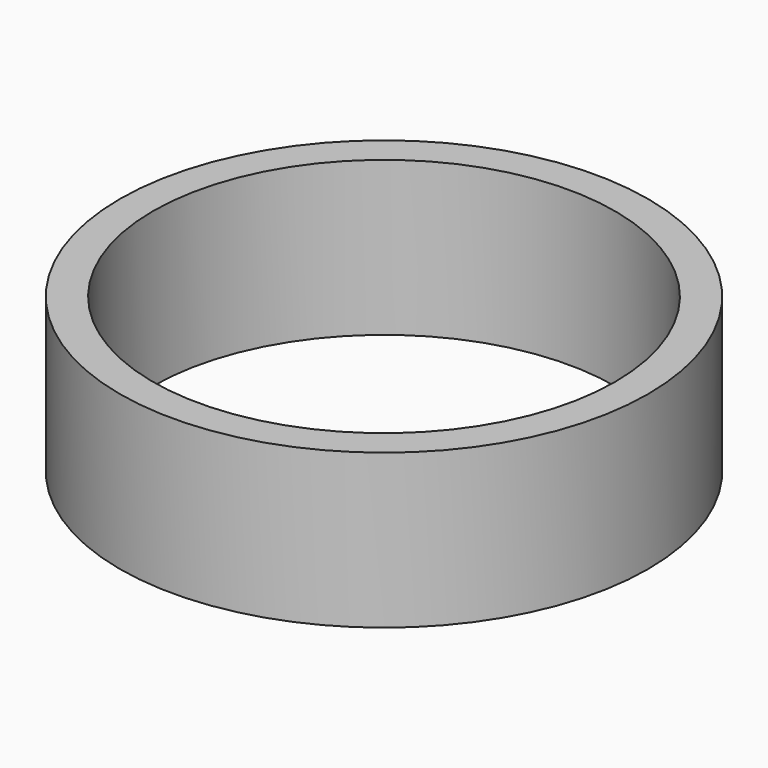
from build123d import *

# Parameters (mm, degrees)
CYLINDER026_R     = 10.5
CYLINDER026_DEPTH = 13
CYLINDER025_R     = 12
CYLINDER025_DEPTH = 7


with BuildPart() as cylinder026:
    # Cylinder026 → Cylinder026 (new body)
    with BuildSketch(Plane.XY.offset(-6)):
        Circle(CYLINDER026_R)
    extrude(amount=CYLINDER026_DEPTH)


with BuildPart() as cut094:
    # Cylinder025 → Cylinder025 (new body)
    with BuildSketch(Plane.XY.offset(-6)):
        Circle(CYLINDER025_R)
    extrude(amount=CYLINDER025_DEPTH)

    # Cut094: cut Cylinder026
    add(cylinder026.part, mode=Mode.SUBTRACT)


solid = cut094.part
